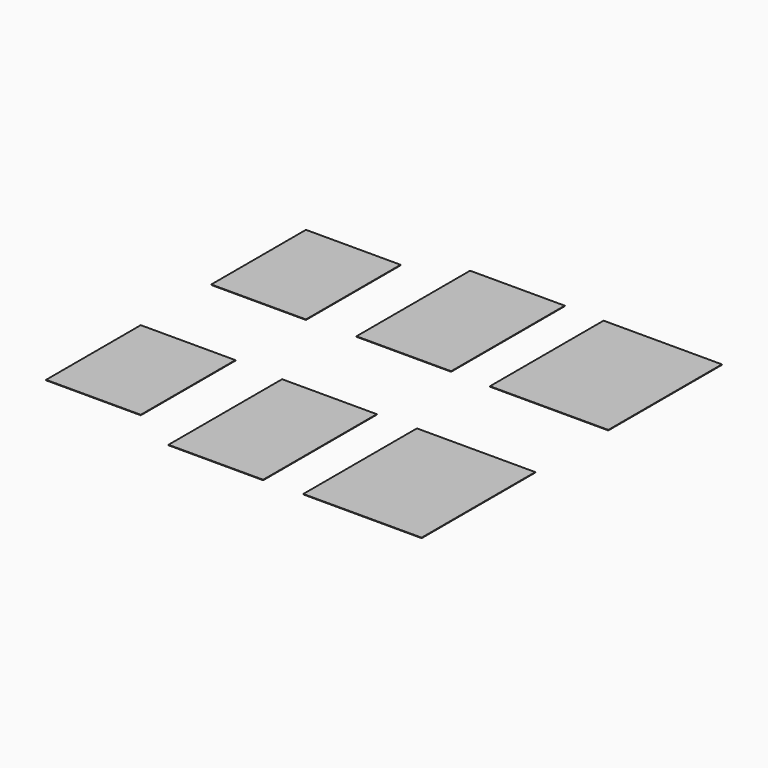
from build123d import *

# Parameters (mm, degrees)
F0_W     = 400
F0_H     = 500
F0_H_2   = 600
F0_W_2   = 500
F1_DEPTH = 2


with BuildPart() as f1:
    # F0 (on Top) → F1 (new body)
    with BuildSketch(Plane.XY):
        with Locations((200, 436.189956)):
            Rectangle(F0_W, F0_H)
        with Locations((805.329216, 496.371694)):
            Rectangle(F0_W, F0_H_2)
        with Locations((1422.148585, 492.8895)):
            Rectangle(F0_W_2, F0_H_2)
    extrude(amount=F1_DEPTH)


with BuildPart() as f2_1:
    # F2: instance of F1
    add(f1.part.mirror(Plane.XZ))


solid = Compound([f1.part, f2_1.part])
